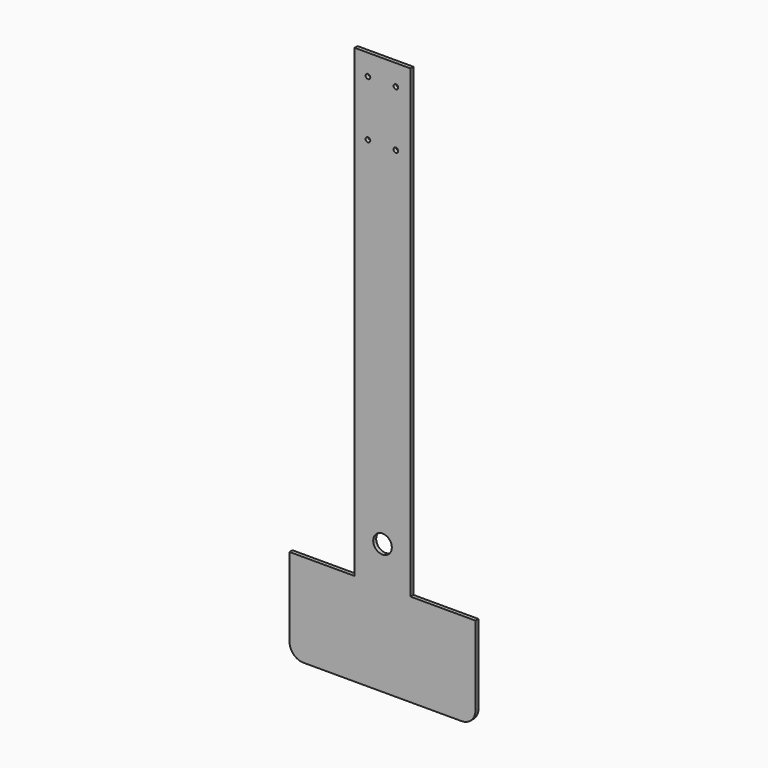
from build123d import *

# Parameters (mm, degrees)
F0_R     = 12.7
F0_R_2   = 3.175
F1_DEPTH = 5.08


with BuildPart() as f1:
    # F0 (on Front) → F1 (new body)
    with BuildSketch(Plane.XZ):
        with BuildLine():
            Line((-88.9, 61.011223), (-165.1, 61.011223))
            Line((-165.1, 61.011223), (-165.1, -573.988777))
            Line((-165.1, -573.988777), (-254, -573.988777))
            Line((-254, -573.988777), (-254, -681.938777))
            ThreePointArc((-254, -681.938777), (-248.420384, -695.409161), (-234.95, -700.988777))
            Line((-234.95, -700.988777), (-19.05, -700.988777))
            ThreePointArc((-19.05, -700.988777), (-5.579616, -695.409161), (0, -681.938777))
            Line((0, -681.938777), (0, -573.988777))
            Line((0, -573.988777), (-88.9, -573.988777))
            Line((-88.9, -573.988777), (-88.9, 61.011223))
        make_face()
        with Locations((-127, -523.188777)):
            Circle(F0_R, mode=Mode.SUBTRACT)
        with Locations((-146.885902, -43.763777)):
            Circle(F0_R_2, mode=Mode.SUBTRACT)
        with Locations((-146.885902, 32.436223)):
            Circle(F0_R_2, mode=Mode.SUBTRACT)
        with Locations((-108.785902, -43.763777)):
            Circle(F0_R_2, mode=Mode.SUBTRACT)
        with Locations((-108.785902, 32.436223)):
            Circle(F0_R_2, mode=Mode.SUBTRACT)
    extrude(amount=F1_DEPTH)


solid = f1.part
